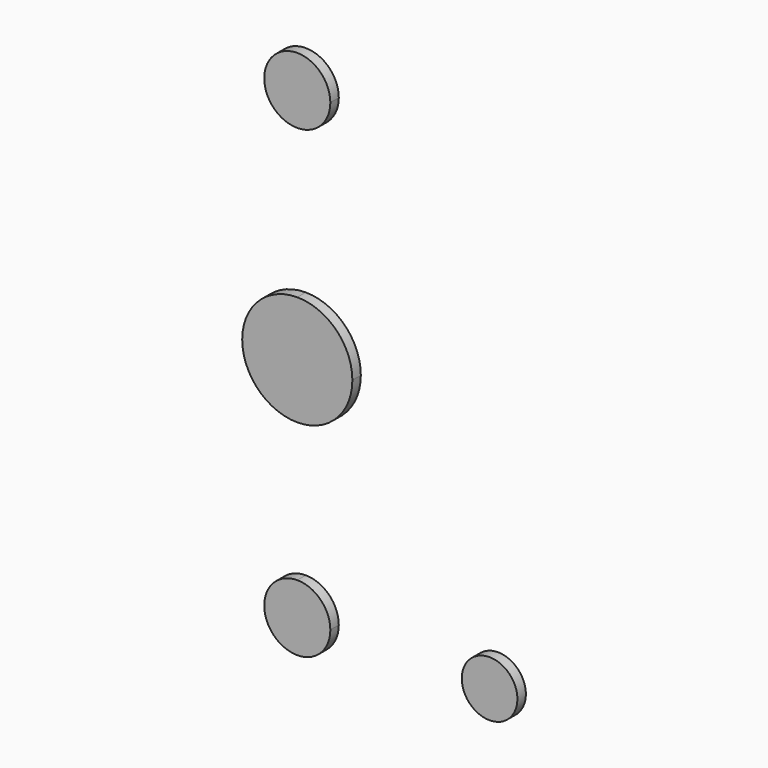
from build123d import *

# Parameters (mm, degrees)
F1_DEPTH = 3.048


with BuildPart() as f1:
    # F0 (on Front) → F1 (new body)
    with BuildSketch(Plane.XZ):
        with BuildLine():
            Line((0, -65.424003), (9.525, -65.424003))
            ThreePointArc((9.525, -65.424003), (6.735192, -58.688811), (0, -55.899003))
            Line((0, -55.899003), (0, -65.424003))
        make_face()
        with BuildLine():
            ThreePointArc((9.525, 68.355888), (-6.735192, 75.09108), (0, 58.830888))
            ThreePointArc((0, 58.830888), (6.735192, 61.620696), (9.525, 68.355888))
        make_face()
        with BuildLine():
            ThreePointArc((0, 15.875), (-15.875, 0), (0, -15.875))
            Line((0, -15.875), (0, 15.875))
        make_face()
        with BuildLine():
            Line((0, 15.875), (0, -15.875))
            ThreePointArc((0, -15.875), (11.22532, -11.22532), (15.875, 0))
            ThreePointArc((15.875, 0), (11.22532, 11.22532), (0, 15.875))
        make_face()
        with BuildLine():
            ThreePointArc((0, -55.899003), (-6.735192, -72.159195), (9.525, -65.424003))
            Line((9.525, -65.424003), (0, -65.424003))
            Line((0, -65.424003), (0, -55.899003))
        make_face()
        with BuildLine():
            ThreePointArc((63.440335, -65.424003), (55.422384, -57.406052), (47.404434, -65.424003))
            ThreePointArc((47.404434, -65.424003), (55.422384, -73.441953), (63.440335, -65.424003))
        make_face()
    extrude(amount=F1_DEPTH)


solid = f1.part
